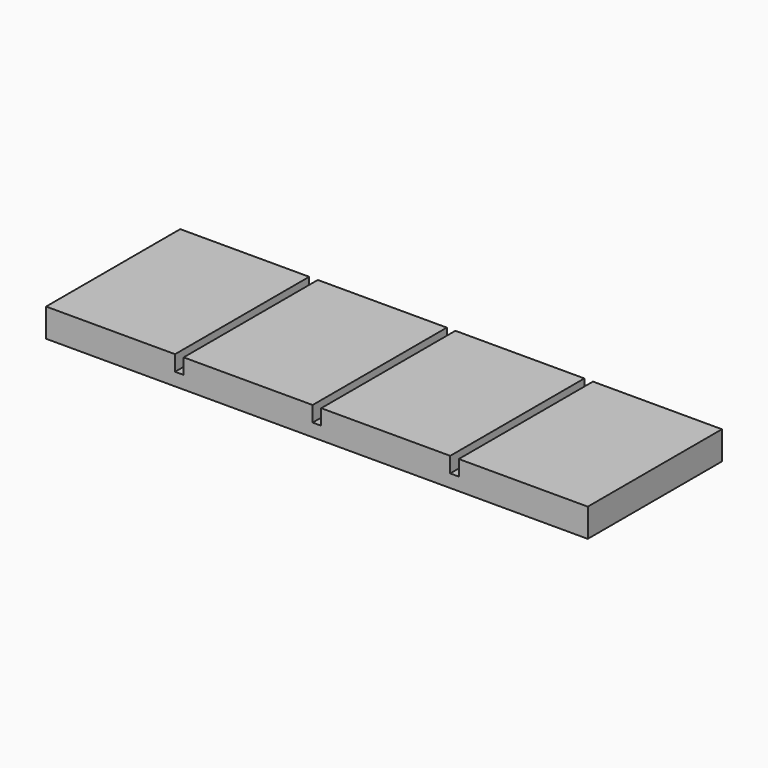
from build123d import *

# Parameters (mm, degrees)
SKETCH021_W            = 10
SKETCH021_H            = 13
PAD_DEPTH              = 1.2
PAD_FACE5_W            = 13
PAD_FACE5_H            = 10
PAD008_DEPTH           = 1
PAD008_FACE8_W         = 13
PAD008_FACE8_H         = 1
PAD009_DEPTH           = 32
LINEARPATTERN004_COUNT = 4
LINEARPATTERN004_PITCH = 10.6666666667


with BuildPart() as part:
    # Sketch021 → Pad (new body)
    with BuildSketch(Plane.XY):
        Rectangle(SKETCH021_W, SKETCH021_H)
    pad = extrude(amount=PAD_DEPTH)

    # Pad Face5 → Pad008 (add)
    with BuildSketch(Plane(origin=(0, 0, 0), x_dir=(0, -1, 0), z_dir=(0, 0, -1))):
        Rectangle(PAD_FACE5_W, PAD_FACE5_H)
    extrude(amount=PAD008_DEPTH)

    # Pad008 Face8 → Pad009 (add)
    with BuildSketch(Plane(origin=(5, 0, -0.5), x_dir=(0, -1, 0), z_dir=(1, 0, 0))):
        Rectangle(PAD008_FACE8_W, PAD008_FACE8_H)
    extrude(amount=PAD009_DEPTH)

    # LinearPattern004: Pad ×4
    with Locations(*[(i * LINEARPATTERN004_PITCH, 0, 0) for i in range(1, LINEARPATTERN004_COUNT)]):
        add(pad)


with BuildPart() as part_1:
    # Body004 placement: moved
    add(part.part.moved(Location((-21, -48, 1.6))))


solid = part_1.part
